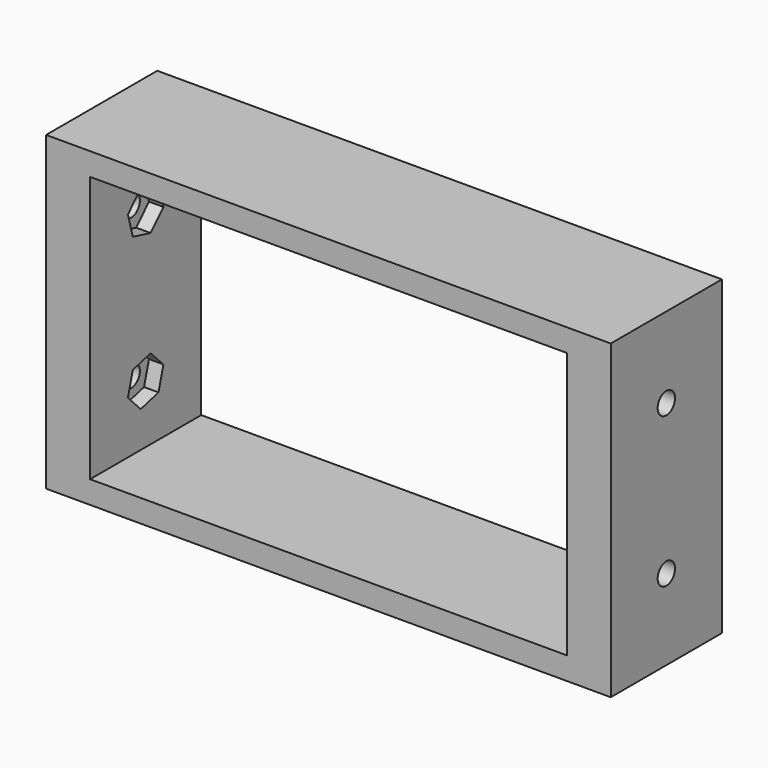
from build123d import *

# Parameters (mm, degrees)
F0_W     = 78.15
F0_H     = 43.1
F1_DEPTH = 19.23
F2_W     = 65.97
F2_H     = 36.84
F3_DEPTH = 35
F4_R     = 1.5
F5_DEPTH = 80
F6_R     = 1.5
F7_DEPTH = 2
F9_DEPTH = 2


with BuildPart() as f1:
    # F0 (on Front) → F1 (new body)
    with BuildSketch(Plane.XZ):
        Rectangle(F0_W, F0_H)
    extrude(amount=F1_DEPTH)

    # F2 (on face) → F3 (cut)
    with BuildSketch(Plane.XZ.offset(19.23)):
        Rectangle(F2_W, F2_H)
    extrude(amount=-F3_DEPTH, mode=Mode.SUBTRACT)

    # F4 (on face) → F5 (cut)
    with BuildSketch(Plane.YZ.offset(39.075)):
        with Locations((-9.615, -10.38)):
            Circle(F4_R)
        with Locations((-9.615, 10.38)):
            Circle(F4_R)
    extrude(amount=-F5_DEPTH, mode=Mode.SUBTRACT)

    # F6 (on face) → F7 (cut)
    with BuildSketch(Plane.YZ.offset(-32.985)):
        Polygon((-8.75934, 7.32203), (-6.53889, 9.592039), (-7.394551, 12.650009), (-10.47066, 13.43797), (-12.69111, 11.167961), (-11.835449, 8.109991), align=None)
        with Locations((-9.615, 10.38)):
            Circle(F6_R, mode=Mode.SUBTRACT)
        Polygon((-7.394551, -12.650009), (-6.53889, -9.592039), (-8.75934, -7.32203), (-11.835449, -8.109991), (-12.69111, -11.167961), (-10.47066, -13.43797), align=None)
        with Locations((-9.615, -10.38)):
            Circle(F6_R, mode=Mode.SUBTRACT)
    extrude(amount=-F7_DEPTH, mode=Mode.SUBTRACT)

    # F8 (on face) → F9 (cut)
    with BuildSketch(Plane(origin=(32.985, 0, 0), x_dir=(0, -1, 0), z_dir=(-1, 0, 0))):
        Polygon((9.685048, 13.554654), (6.900693, 12.02799), (6.830645, 8.853336), (9.544952, 7.205346), (12.329307, 8.73201), (12.399355, 11.906664), align=None)
        Polygon((6.900693, -12.02799), (9.685048, -13.554654), (12.399355, -11.906664), (12.329307, -8.73201), (9.544952, -7.205346), (6.830645, -8.853336), align=None)
    extrude(amount=-F9_DEPTH, mode=Mode.SUBTRACT)


solid = f1.part
